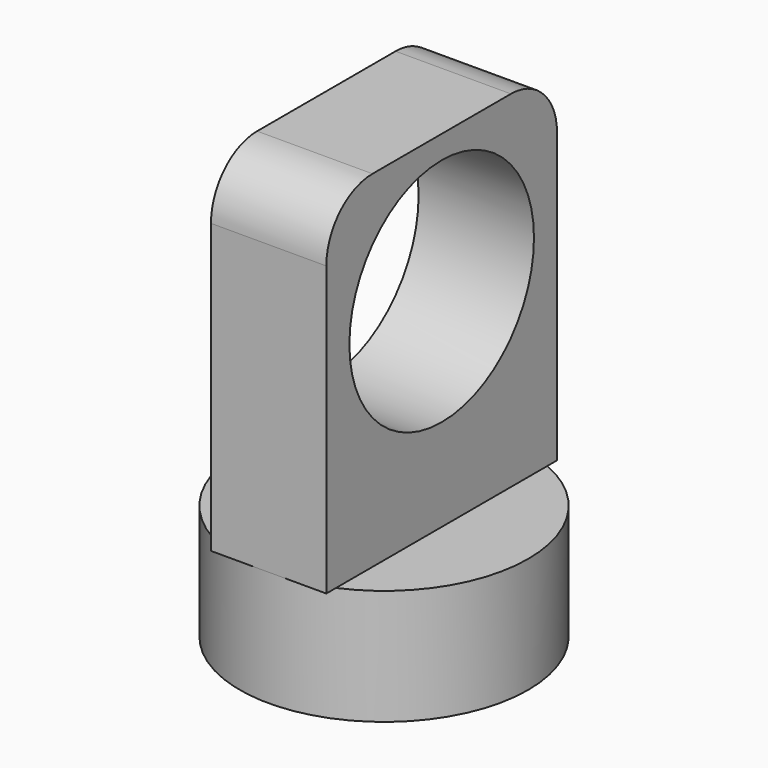
from build123d import *

# Parameters (mm, degrees)
F0_R     = 12.7
F2_DEPTH = 6.35
F3_DEPTH = 6.35
F1_R     = 15.875
F1_R_2   = 12.7
F4_DEPTH = 12.7
F5_R     = 12.7
F6_DEPTH = 6.35


with BuildPart() as f2:
    # F0 (on Right) → F2 (new body)
    with BuildSketch(Plane.YZ):
        with BuildLine():
            Line((-15.875, 0), (15.875, 0))
            Line((15.875, 0), (15.875, 31.75))
            ThreePointArc((15.875, 31.75), (14.0151280605, 36.2401280605), (9.525, 38.1))
            Line((9.525, 38.1), (-9.525, 38.1))
            ThreePointArc((-9.525, 38.1), (-14.0151280605, 36.2401280605), (-15.875, 31.75))
            Line((-15.875, 31.75), (-15.875, 0))
        make_face()
        with Locations((0, 22.8458158672)):
            Circle(F0_R, mode=Mode.SUBTRACT)
    extrude(amount=F2_DEPTH)

    # F3 (add): a face of the model
    f3_faces = [f2.faces().sort_by_distance(p)[0] for p in [
        (0, 0, 0.4959508544),
    ]]
    extrude(f3_faces, amount=F3_DEPTH)

    # F1 (on Top) → F4 (join)
    with BuildSketch(Plane.XY):
        Circle(F1_R)
        Circle(F1_R_2, mode=Mode.SUBTRACT)
        Circle(F1_R_2)
    extrude(amount=-F4_DEPTH)

    # F5 (on face) → F6 (cut)
    with BuildSketch(Plane(origin=(0, 0, -12.7), x_dir=(1, 0, 0), z_dir=(0, 0, -1))):
        Circle(F5_R)
    extrude(amount=-F6_DEPTH, mode=Mode.SUBTRACT)


solid = f2.part
